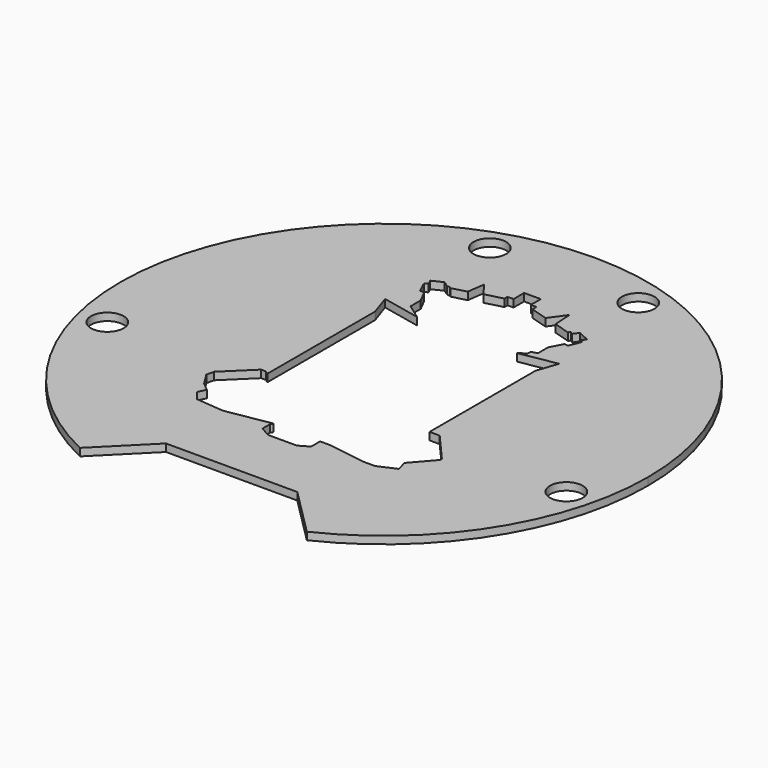
from build123d import *

# Parameters (mm, degrees)
F0_R     = 6.5
F1_DEPTH = 3


with BuildPart() as f1:
    # F0 (on Top) → F1 (new body)
    with BuildSketch(Plane.XY):
        with BuildLine():
            Line((0, 72.78838), (0, 105))
            ThreePointArc((0, 105), (-102.419357, 23.136018), (-45.134783, -94.804279))
            Line((-45.134783, -94.804279), (-26.122815, -75.792312))
            Line((-26.122815, -75.792312), (0, -75.792312))
            Line((0, -75.792312), (0, -64.716025))
            Line((0, -64.716025), (0, -51.507495))
            Line((0, -51.507495), (-4.902991, -51.507495))
            Line((-4.902991, -51.507495), (-8.982703, -49.268302))
            Line((-8.982703, -49.268302), (-8.982703, -45.383053))
            Line((-8.982703, -45.383053), (-8.322856, -44.464201))
            Line((-8.322856, -44.464201), (-26.155021, -47.517654))
            Line((-26.155021, -47.517654), (-37.188161, -46.499837))
            Line((-37.188161, -46.499837), (-40.241614, -42.713556))
            Line((-40.241614, -42.713556), (-38.775958, -39.660104))
            Line((-38.775958, -39.660104), (-42.032976, -36.932353))
            Line((-42.032976, -36.932353), (-45.260154, -31.819914))
            Line((-45.260154, -31.819914), (-44.569235, -28.768361))
            Line((-44.569235, -28.768361), (-34.090322, -18.546099))
            Line((-34.090322, -18.546099), (-32.151641, -18.546099))
            Line((-32.151641, -18.546099), (-30.825328, -19.498551))
            Line((-30.825328, -19.498551), (-30.825328, 34.089174))
            Line((-30.825328, 34.089174), (-33.692077, 42.6598))
            Line((-33.692077, 42.6598), (-18.384103, 39.402783))
            Line((-18.384103, 39.402783), (-24.450295, 43.759041))
            Line((-24.450295, 43.759041), (-24.450295, 48.807416))
            Line((-24.450295, 48.807416), (-26.969282, 53.710941))
            Line((-26.969282, 53.710941), (-28.595109, 53.710941))
            Line((-28.595109, 53.710941), (-30.825328, 58.393094))
            Line((-30.825328, 58.393094), (-29.480881, 59.033486))
            Line((-29.480881, 59.033486), (-30.429862, 61.025791))
            Line((-30.429862, 61.025791), (-26.284034, 63.000545))
            Line((-26.284034, 63.000545), (-24.078682, 61.416837))
            Line((-24.078682, 61.416837), (-22.965606, 61.416837))
            Line((-22.965606, 61.416837), (-22.421065, 61.025791))
            Line((-22.421065, 61.025791), (-16.709682, 62.528782))
            Line((-16.709682, 62.528782), (-15.732577, 69.490649))
            Line((-15.732577, 69.490649), (-11.864871, 64.198002))
            Line((-11.864871, 64.198002), (-4.902991, 66.03007))
            Line((-4.902991, 66.03007), (-4.902991, 67.536443))
            Line((-4.902991, 67.536443), (-2.50095, 67.536443))
            Line((-2.50095, 67.536443), (-2.50095, 72.78838))
            Line((-2.50095, 72.78838), (0, 72.78838))
        make_face()
        with Locations((-91.313913, -23.465414)):
            Circle(F0_R, mode=Mode.SUBTRACT)
        with Locations((-29.72243, 89.777015)):
            Circle(F0_R, mode=Mode.SUBTRACT)
        with BuildLine():
            ThreePointArc((45.134783, -94.804279), (88.781057, -56.061787), (105, 0))
            ThreePointArc((105, 0), (74.246212, 74.246212), (0, 105))
            Line((0, 105), (0, 72.78838))
            Line((0, 72.78838), (4.135221, 72.78838))
            Line((4.135221, 72.78838), (4.135221, 67.821436))
            Line((4.135221, 67.821436), (6.415132, 67.821436))
            Line((6.415132, 67.821436), (6.415132, 65.785795))
            Line((6.415132, 65.785795), (13.244115, 63.752693))
            Line((13.244115, 63.752693), (17.773977, 70.060633))
            Line((17.773977, 70.060633), (18.221818, 62.528782))
            Line((18.221818, 62.528782), (24.691317, 60.566589))
            Line((24.691317, 60.566589), (25.253858, 61.34994))
            Line((25.253858, 61.34994), (26.344692, 60.566589))
            Line((26.344692, 60.566589), (27.870728, 62.691629))
            Line((27.870728, 62.691629), (32.310771, 60.566589))
            Line((32.310771, 60.566589), (31.013132, 58.759595))
            Line((31.013132, 58.759595), (32.186273, 58.294658))
            Line((32.186273, 58.294658), (30.294107, 53.5203))
            Line((30.294107, 53.5203), (28.80712, 53.856976))
            Line((28.80712, 53.856976), (26.201509, 48.849314))
            Line((26.201509, 48.849314), (26.201509, 43.759041))
            Line((26.201509, 43.759041), (23.840172, 43.149535))
            Line((23.840172, 43.149535), (23.840172, 41.765302))
            Line((23.840172, 41.765302), (21.07171, 39.811093))
            Line((21.07171, 39.811093), (35.768993, 42.375993))
            Line((35.768993, 42.375993), (32.959819, 34.089174))
            Line((32.959819, 34.089174), (32.959819, -17.675241))
            Line((32.959819, -17.675241), (32.959819, -18.546099))
            Line((32.959819, -18.546099), (36.990378, -18.546099))
            Line((36.990378, -18.546099), (47.331408, -30.377604))
            Line((47.331408, -30.377604), (47.331408, -31.232571))
            Line((47.331408, -31.232571), (39.921697, -39.741524))
            Line((39.921697, -39.741524), (41.061651, -43.975644))
            Line((41.061651, -43.975644), (34.09978, -47.06981))
            Line((34.09978, -47.06981), (29.336393, -47.06981))
            Line((29.336393, -47.06981), (14.557681, -44.789899))
            Line((14.557681, -44.789899), (10.404986, -44.789899))
            Line((10.404986, -44.789899), (10.404986, -49.268302))
            Line((10.404986, -49.268302), (6.496566, -51.507495))
            Line((6.496566, -51.507495), (0, -51.507495))
            Line((0, -51.507495), (0, -64.716025))
            Line((0, -64.716025), (0, -75.792312))
            Line((0, -75.792312), (26.122815, -75.792312))
            Line((26.122815, -75.792312), (45.134783, -94.804279))
        make_face()
        with Locations((91.313914, -23.465414)):
            Circle(F0_R, mode=Mode.SUBTRACT)
        with Locations((29.297218, 89.777015)):
            Circle(F0_R, mode=Mode.SUBTRACT)
    extrude(amount=F1_DEPTH)


solid = f1.part
